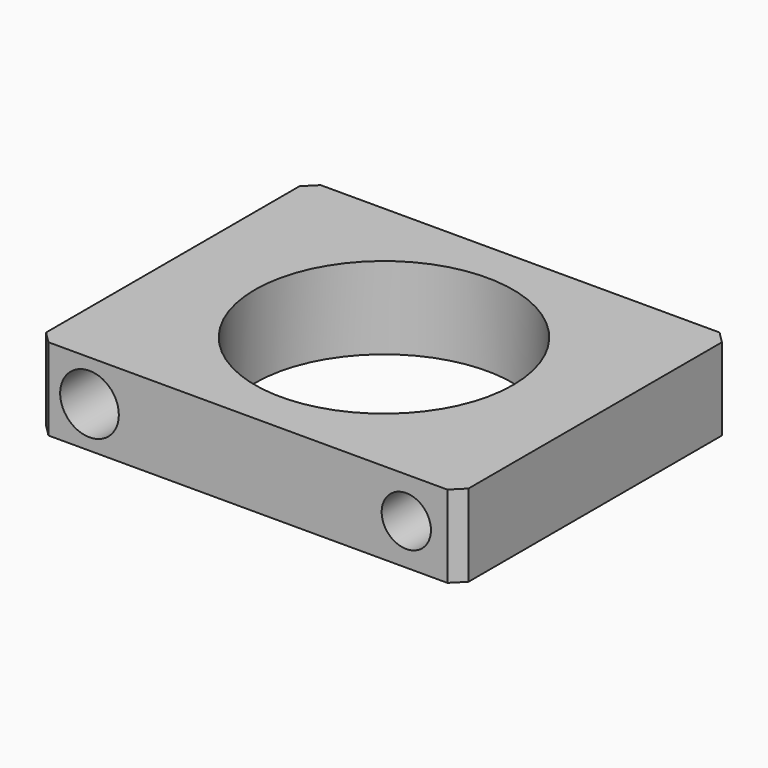
from build123d import *

# Parameters (mm, degrees)
SKETCH_W        = 36
SKETCH_H        = 29
SKETCH_R        = 11
PAD_DEPTH       = 7
SKETCH001_R     = 2.1
SKETCH001_R_2   = 2.5
POCKET_DEPTH    = 29.001
CHAMFER_SIZE    = 1
CHAMFER001_SIZE = 1
CHAMFER002_SIZE = 1


with BuildPart() as part:
    # Sketch → Pad (new body)
    with BuildSketch(Plane.XY):
        Rectangle(SKETCH_W, SKETCH_H)
        Circle(SKETCH_R, mode=Mode.SUBTRACT)
    extrude(amount=PAD_DEPTH)

    # Sketch001 (on Face3 of Pad) → Pocket (cut, through all)
    with BuildSketch(Plane.XZ.offset(14.5)):
        with Locations((13.5, 3.5)):
            Circle(SKETCH001_R)
        with Locations((-13.5, 3.5)):
            Circle(SKETCH001_R_2)
    extrude(amount=-POCKET_DEPTH, mode=Mode.SUBTRACT)

    # Chamfer
    chamfer_edges = [part.edges().sort_by_distance(p)[0] for p in [
        (18, -14.5, 3.5),
    ]]
    chamfer(chamfer_edges, length=CHAMFER_SIZE)

    # Chamfer001
    chamfer001_edges = [part.edges().sort_by_distance(p)[0] for p in [
        (-18, -14.5, 3.5),
    ]]
    chamfer(chamfer001_edges, length=CHAMFER001_SIZE)

    # Chamfer002
    chamfer002_edges = [part.edges().sort_by_distance(p)[0] for p in [
        (18, 14.5, 3.5),
        (-18, 14.5, 3.5),
    ]]
    chamfer(chamfer002_edges, length=CHAMFER002_SIZE)


solid = part.part
